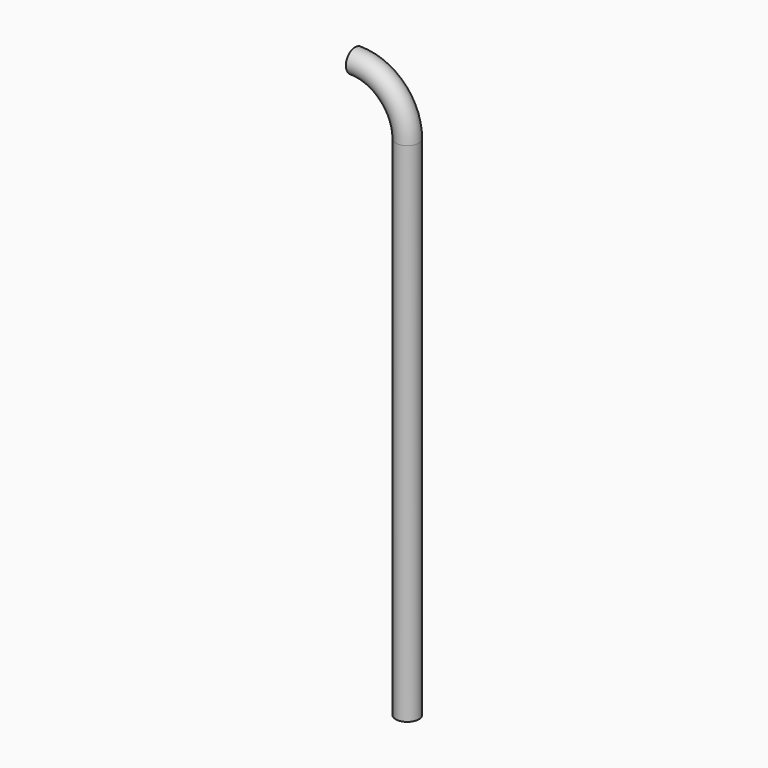
from build123d import *

# Parameters (mm, degrees)
F6_R     = 101.6
F6_R_2   = 98.425
F7_ANGLE = 90
F5_R     = 101.6
F5_R_2   = 98.425
F8_DEPTH = 1206.5
F1_R     = 101.6
F1_R_2   = 98.425
F9_DEPTH = 3238.5


with BuildPart() as f7:
    # F6 (on line) → F7 (revolve)
    with BuildSketch(Plane.XY.offset(4445)):
        Circle(F6_R)
        Circle(F6_R_2, mode=Mode.SUBTRACT)
    revolve(axis=Axis((-457.214653492, -101.6, 4445), (0, -1, 0)), revolution_arc=F7_ANGLE)


with BuildPart() as f8:
    # F5 (on line) → F8 (new body)
    with BuildSketch(Plane.XY.offset(3238.5)):
        Circle(F5_R)
        Circle(F5_R_2, mode=Mode.SUBTRACT)
    extrude(amount=F8_DEPTH)

    # F1 (on Top) → F9 (join)
    with BuildSketch(Plane.XY):
        Circle(F1_R)
        Circle(F1_R_2, mode=Mode.SUBTRACT)
    extrude(amount=F9_DEPTH)


solid = Compound([f7.part, f8.part])
